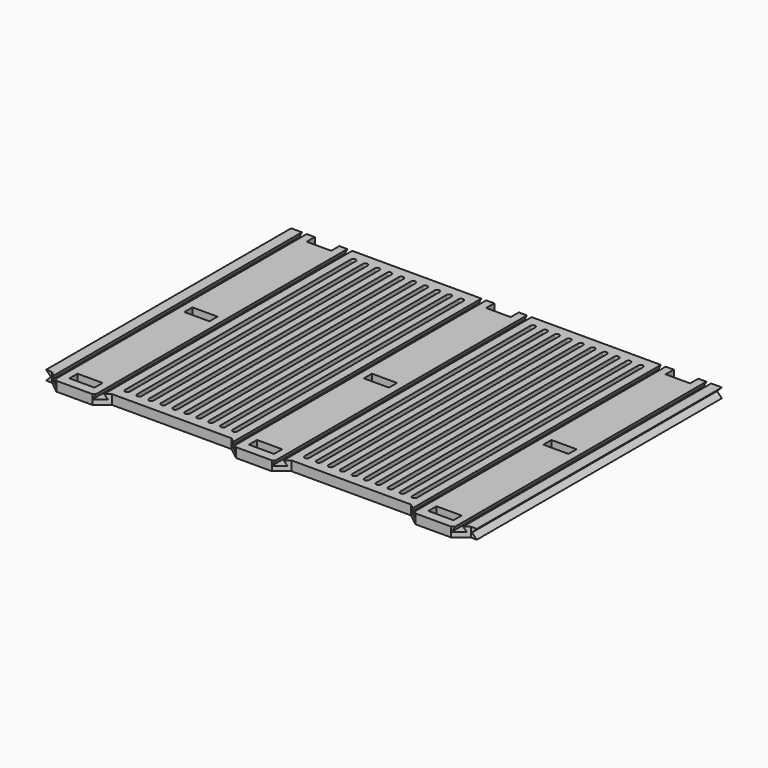
from build123d import *

# Parameters (mm, degrees)
SKETCH005_W          = 180
SKETCH005_H          = 132
SKETCH003_W          = 176
SKETCH003_H          = 132
SKETCH004_W          = 180
SKETCH004_H          = 132
SKETCH_W             = 10.5
SKETCH_H             = 4.25
POCKET_DEPTH         = 2.001
POCKET_DEPTH_BACK    = 2.001
SKETCH001_W          = 10.5
SKETCH001_H          = 4.25
POCKET001_DEPTH      = 2.001
POCKET001_DEPTH_BACK = 2.001
SKETCH002_W          = 10.25
SKETCH002_H          = 4.25
POCKET002_DEPTH      = 2.001
POCKET002_DEPTH_BACK = 2.001
POCKET003_DEPTH      = 128.001
POCKET003_DEPTH_BACK = 4.001
POCKET004_DEPTH      = 128.001
POCKET004_DEPTH_BACK = 4.001
POCKET005_DEPTH      = 128.001
POCKET005_DEPTH_BACK = 4.001
FILLET_R             = 1
POCKET006_DEPTH      = 2.001
POCKET006_DEPTH_BACK = 2.001
POCKET007_DEPTH      = 4.001


with BuildPart() as part:
    # Sketch005 (on DatumPlane) → AdditiveLoft section 0
    with BuildSketch(Plane.XY.offset(-2)):
        with Locations((0, 62)):
            Rectangle(SKETCH005_W, SKETCH005_H)
    # Sketch003 → AdditiveLoft section 1
    with BuildSketch(Plane.XY):
        with Locations((0, 62)):
            Rectangle(SKETCH003_W, SKETCH003_H)
    # Sketch004 (on DatumPlane) → AdditiveLoft section 2
    with BuildSketch(Plane.XY.offset(2)):
        with Locations((0, 62)):
            Rectangle(SKETCH004_W, SKETCH004_H)
    loft(ruled=True)

    # Sketch → Pocket (cut, two sides)
    with BuildSketch(Plane.XY) as pocket_sk:
        with Locations((-75, 2.125)):
            Rectangle(SKETCH_W, SKETCH_H)
        with Locations((0, 2.125)):
            Rectangle(SKETCH_W, SKETCH_H)
        with Locations((75, 2.125)):
            Rectangle(SKETCH_W, SKETCH_H)
    extrude(amount=-POCKET_DEPTH, mode=Mode.SUBTRACT)
    extrude(pocket_sk.sketch, amount=POCKET_DEPTH_BACK, mode=Mode.SUBTRACT)

    # Sketch001 (on DatumPlane) → Pocket001 (cut, two sides)
    with BuildSketch(Plane(origin=(0, 60, 0), x_dir=(1, 0, 0), z_dir=(0, 0, 1))) as pocket001_sk:
        with Locations((-75, 2.125)):
            Rectangle(SKETCH001_W, SKETCH001_H)
        with Locations((0, 2.125)):
            Rectangle(SKETCH001_W, SKETCH001_H)
        with Locations((75, 2.125)):
            Rectangle(SKETCH001_W, SKETCH001_H)
    extrude(amount=-POCKET001_DEPTH, mode=Mode.SUBTRACT)
    extrude(pocket001_sk.sketch, amount=POCKET001_DEPTH_BACK, mode=Mode.SUBTRACT)

    # Sketch002 (on DatumPlane) → Pocket002 (cut, two sides)
    with BuildSketch(Plane(origin=(0, 123.75, 0), x_dir=(1, 0, 0), z_dir=(0, 0, 1))) as pocket002_sk:
        with Locations((-75, 2.125)):
            Rectangle(SKETCH002_W, SKETCH002_H)
        with Locations((0, 2.125)):
            Rectangle(SKETCH002_W, SKETCH002_H)
        with Locations((75, 2.125)):
            Rectangle(SKETCH002_W, SKETCH002_H)
    extrude(amount=-POCKET002_DEPTH, mode=Mode.SUBTRACT)
    extrude(pocket002_sk.sketch, amount=POCKET002_DEPTH_BACK, mode=Mode.SUBTRACT)

    # Sketch006 → Pocket003 (cut, two sides)
    with BuildSketch(Plane.XZ) as pocket003_sk:
        Polygon((-11.5, 0), (-7.5, 0), (-8.5, 2), (-10.5, 2), align=None)
        Polygon((7.5, 0), (11.5, 0), (10.5, 2), (8.5, 2), align=None)
    extrude(amount=-POCKET003_DEPTH, mode=Mode.SUBTRACT)
    extrude(pocket003_sk.sketch, amount=POCKET003_DEPTH_BACK, mode=Mode.SUBTRACT)

    # Sketch007 (on DatumPlane) → Pocket004 (cut, two sides)
    with BuildSketch(Plane(origin=(-75, 0, 0), x_dir=(1, 0, 0), z_dir=(0, -1, 0))) as pocket004_sk:
        Polygon((-11.5, 0), (-7.5, 0), (-8.5, 2), (-10.5, 2), align=None)
        Polygon((7.5, 0), (11.5, 0), (10.5, 2), (8.5, 2), align=None)
    extrude(amount=-POCKET004_DEPTH, mode=Mode.SUBTRACT)
    extrude(pocket004_sk.sketch, amount=POCKET004_DEPTH_BACK, mode=Mode.SUBTRACT)

    # Sketch008 (on DatumPlane) → Pocket005 (cut, two sides)
    with BuildSketch(Plane(origin=(75, 0, 0), x_dir=(1, 0, 0), z_dir=(0, -1, 0))) as pocket005_sk:
        Polygon((-11.5, 0), (-7.5, 0), (-8.5, 2), (-10.5, 2), align=None)
        Polygon((7.5, 0), (11.5, 0), (10.5, 2), (8.5, 2), align=None)
    extrude(amount=-POCKET005_DEPTH, mode=Mode.SUBTRACT)
    extrude(pocket005_sk.sketch, amount=POCKET005_DEPTH_BACK, mode=Mode.SUBTRACT)

    # Fillet
    fillet_edges = [part.edges().sort_by_distance(p)[0] for p in [
        (-69.75, 2.125, -2),
        (-80.25, 2.125, -2),
        (-5.25, 2.125, -2),
        (5.25, 2.125, -2),
        (69.75, 2.125, -2),
        (80.25, 2.125, -2),
        (-80.25, 62.125, -2),
        (-69.75, 62.125, -2),
        (-5.25, 62.125, -2),
        (5.25, 62.125, -2),
        (69.75, 62.125, -2),
        (80.25, 62.125, -2),
        (-80.125, 125.875, -2),
        (-69.875, 125.875, -2),
        (-5.125, 125.875, -2),
        (5.125, 125.875, -2),
        (69.875, 125.875, -2),
        (80.125, 125.875, -2),
    ]]
    fillet(fillet_edges, radius=FILLET_R)

    # Sketch009 → Pocket006 (cut, two sides)
    with BuildSketch(Plane.XY) as pocket006_sk:
        Polygon((-100, 0), (-100, -20), (100, -20), (100, 0), (87.5, 0), (82.5, -4), (67.5, -4), (62.5, 0), (12.5, 0), (7.5, -4), (-7.5, -4), (-12.5, 0), (-62.5, 0), (-67.5, -4), (-82.5, -4), (-87.5, 0), align=None)
    extrude(amount=-POCKET006_DEPTH, mode=Mode.SUBTRACT)
    extrude(pocket006_sk.sketch, amount=POCKET006_DEPTH_BACK, mode=Mode.SUBTRACT)

    # Sketch010 (on DatumPlane) → Pocket007 (cut, through all)
    with BuildSketch(Plane.XY.offset(2)):
        with BuildLine():
            ThreePointArc((-59, 123), (-60, 124), (-61, 123))
            Line((-61, 123), (-61, 5))
            ThreePointArc((-61, 5), (-60, 4), (-59, 5))
            Line((-59, 123), (-59, 5))
        make_face()
        with BuildLine():
            ThreePointArc((-56, 5), (-55, 4), (-54, 5))
            Line((-54, 123), (-54, 5))
            ThreePointArc((-54, 123), (-55, 124), (-56, 123))
            Line((-56, 123), (-56, 5))
        make_face()
        with BuildLine():
            ThreePointArc((-51, 5), (-50, 4), (-49, 5))
            Line((-49, 123), (-49, 5))
            ThreePointArc((-49, 123), (-50, 124), (-51, 123))
            Line((-51, 123), (-51, 5))
        make_face()
        with BuildLine():
            ThreePointArc((-46, 5), (-45, 4), (-44, 5))
            Line((-44, 123), (-44, 5))
            ThreePointArc((-44, 123), (-45, 124), (-46, 123))
            Line((-46, 123), (-46, 5))
        make_face()
        with BuildLine():
            ThreePointArc((-41, 5), (-40, 4), (-39, 5))
            Line((-39, 123), (-39, 5))
            ThreePointArc((-39, 123), (-40, 124), (-41, 123))
            Line((-41, 123), (-41, 5))
        make_face()
        with BuildLine():
            ThreePointArc((-36, 5), (-35, 4), (-34, 5))
            Line((-34, 123), (-34, 5))
            ThreePointArc((-34, 123), (-35, 124), (-36, 123))
            Line((-36, 123), (-36, 5))
        make_face()
        with BuildLine():
            ThreePointArc((-31, 5), (-30, 4), (-29, 5))
            Line((-29, 123), (-29, 5))
            ThreePointArc((-29, 123), (-30, 124), (-31, 123))
            Line((-31, 123), (-31, 5))
        make_face()
        with BuildLine():
            ThreePointArc((-26, 5), (-25, 4), (-24, 5))
            Line((-24, 123), (-24, 5))
            ThreePointArc((-24, 123), (-25, 124), (-26, 123))
            Line((-26, 123), (-26, 5))
        make_face()
        with BuildLine():
            ThreePointArc((-21, 5), (-20, 4), (-19, 5))
            Line((-19, 123), (-19, 5))
            ThreePointArc((-19, 123), (-20, 124), (-21, 123))
            Line((-21, 123), (-21, 5))
        make_face()
        with BuildLine():
            ThreePointArc((-16, 5), (-15, 4), (-14, 5))
            Line((-14, 123), (-14, 5))
            ThreePointArc((-14, 123), (-15, 124), (-16, 123))
            Line((-16, 123), (-16, 5))
        make_face()
        with BuildLine():
            ThreePointArc((61, 123), (60, 124), (59, 123))
            Line((59, 123), (59, 5))
            ThreePointArc((59, 5), (60, 4), (61, 5))
            Line((61, 123), (61, 5))
        make_face()
        with BuildLine():
            ThreePointArc((54, 5), (55, 4), (56, 5))
            Line((56, 123), (56, 5))
            ThreePointArc((56, 123), (55, 124), (54, 123))
            Line((54, 123), (54, 5))
        make_face()
        with BuildLine():
            ThreePointArc((49, 5), (50, 4), (51, 5))
            Line((51, 123), (51, 5))
            ThreePointArc((51, 123), (50, 124), (49, 123))
            Line((49, 123), (49, 5))
        make_face()
        with BuildLine():
            ThreePointArc((44, 5), (45, 4), (46, 5))
            Line((46, 123), (46, 5))
            ThreePointArc((46, 123), (45, 124), (44, 123))
            Line((44, 123), (44, 5))
        make_face()
        with BuildLine():
            ThreePointArc((39, 5), (40, 4), (41, 5))
            Line((41, 123), (41, 5))
            ThreePointArc((41, 123), (40, 124), (39, 123))
            Line((39, 123), (39, 5))
        make_face()
        with BuildLine():
            ThreePointArc((34, 5), (35, 4), (36, 5))
            Line((36, 123), (36, 5))
            ThreePointArc((36, 123), (35, 124), (34, 123))
            Line((34, 123), (34, 5))
        make_face()
        with BuildLine():
            ThreePointArc((29, 5), (30, 4), (31, 5))
            Line((31, 123), (31, 5))
            ThreePointArc((31, 123), (30, 124), (29, 123))
            Line((29, 123), (29, 5))
        make_face()
        with BuildLine():
            ThreePointArc((24, 5), (25, 4), (26, 5))
            Line((26, 123), (26, 5))
            ThreePointArc((26, 123), (25, 124), (24, 123))
            Line((24, 123), (24, 5))
        make_face()
        with BuildLine():
            ThreePointArc((19, 5), (20, 4), (21, 5))
            Line((21, 123), (21, 5))
            ThreePointArc((21, 123), (20, 124), (19, 123))
            Line((19, 123), (19, 5))
        make_face()
        with BuildLine():
            ThreePointArc((14, 5), (15, 4), (16, 5))
            Line((16, 123), (16, 5))
            ThreePointArc((16, 123), (15, 124), (14, 123))
            Line((14, 123), (14, 5))
        make_face()
    extrude(amount=-POCKET007_DEPTH, mode=Mode.SUBTRACT)


solid = part.part
